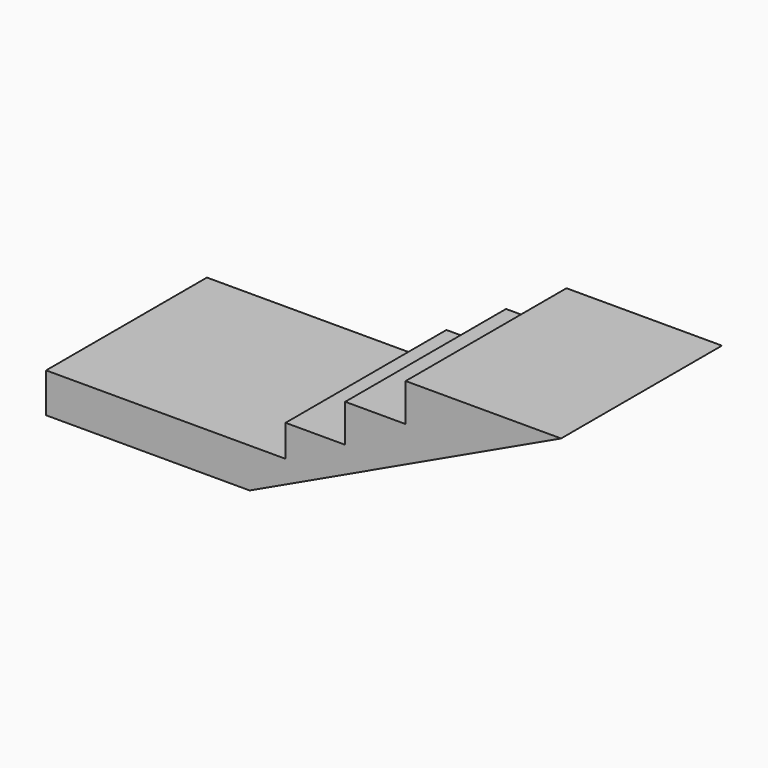
from build123d import *

# Parameters (mm, degrees)
F1_DEPTH = 45.75
F0_W     = 92.649092
F0_H     = 18
F2_DEPTH = 45.75


with BuildPart() as f1:
    # F0 (on Front) → F1 (new body, symmetric)
    with BuildSketch(Plane.XZ):
        Polygon((26.753499, -34.5), (-0.395593, -34.5), (-0.395593, -48.93963), (-16.746501, -48.93963), (-16.746501, -66.93963), (125.007659, 0), (54.253499, 0), (54.253499, -17.25), (26.753499, -17.25), align=None)
    extrude(amount=F1_DEPTH, both=True)

    # F0 (on Front) → F2 (join, symmetric)
    with BuildSketch(Plane.XZ):
        Polygon((26.753499, -34.5), (-0.395593, -34.5), (-0.395593, -48.93963), (-16.746501, -48.93963), (-16.746501, -66.93963), (125.007659, 0), (54.253499, 0), (54.253499, -17.25), (26.753499, -17.25), align=None)
        with Locations((-63.071047, -57.93963)):
            Rectangle(F0_W, F0_H)
    extrude(amount=F2_DEPTH, both=True)


solid = f1.part
